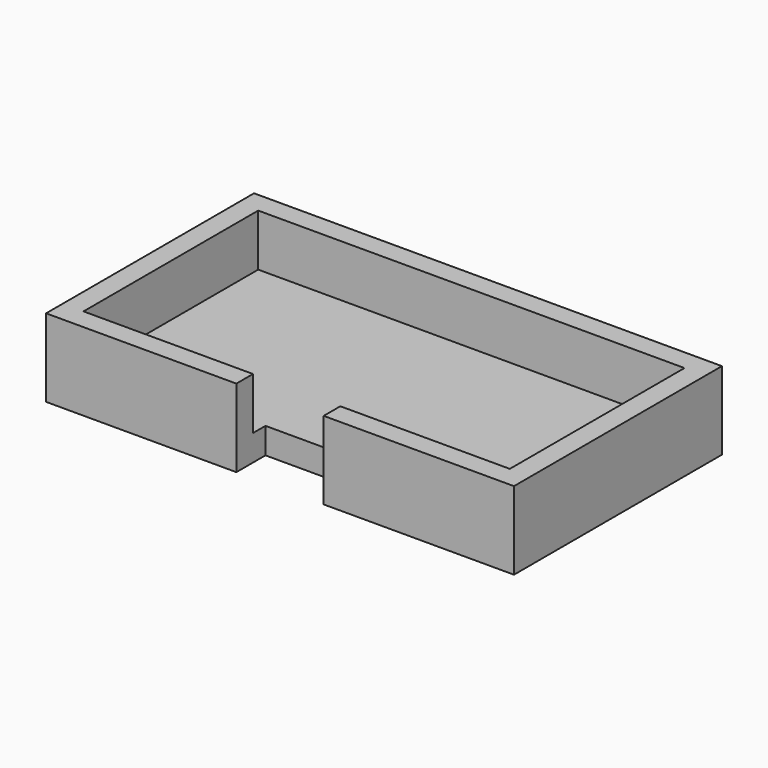
from build123d import *

# Parameters (mm, degrees)
F0_W     = 57.15
F0_H     = 31.75
F1_DEPTH = 9.525
F2_W     = 52.07
F2_H     = 26.67
F3_DEPTH = 6.35
F4_W     = 10.668
F4_H     = 2.54
F4_H_2   = 1.905
F5_DEPTH = 25.4


with BuildPart() as f1:
    # F0 (on Top) → F1 (new body)
    with BuildSketch(Plane.XY):
        Rectangle(F0_W, F0_H)
    extrude(amount=F1_DEPTH)

    # F2 (on face) → F3 (cut)
    with BuildSketch(Plane.XY.offset(9.525)):
        Rectangle(F2_W, F2_H)
    extrude(amount=-F3_DEPTH, mode=Mode.SUBTRACT)

    # F4 (on face) → F5 (cut)
    with BuildSketch(Plane.XY.offset(9.525)):
        with Locations((0, -14.605)):
            Rectangle(F4_W, F4_H)
        with Locations((0, -12.3825)):
            Rectangle(F4_W, F4_H_2)
    extrude(amount=-F5_DEPTH, mode=Mode.SUBTRACT)


solid = f1.part
